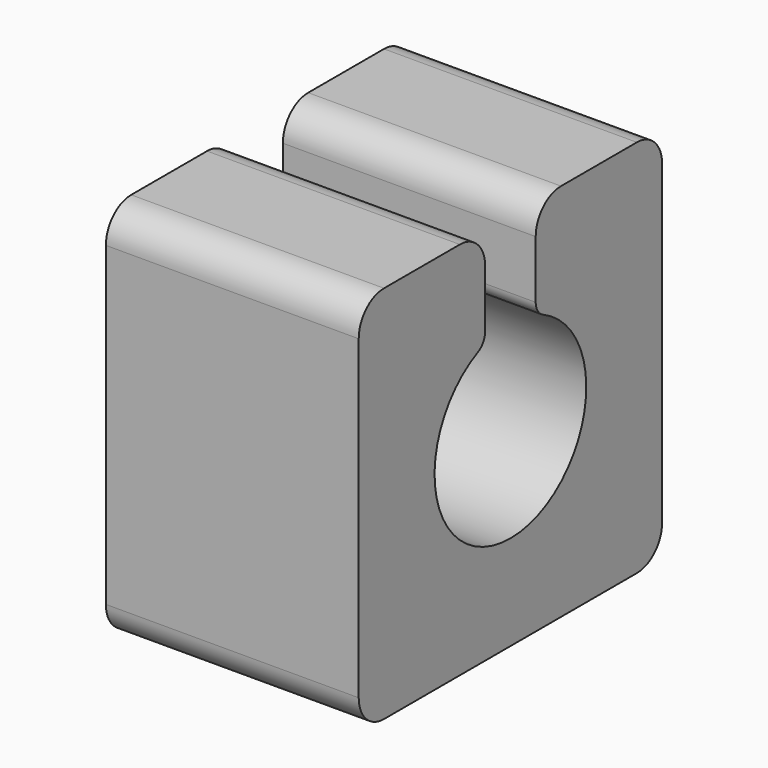
from build123d import *

# Parameters (mm, degrees)
F1_DEPTH = 50.8


with BuildPart() as f1:
    # F0 (on Right) → F1 (new body)
    with BuildSketch(Plane.YZ):
        with BuildLine():
            ThreePointArc((38.1, 31.75), (36.240128, 36.240128), (31.75, 38.1))
            Line((31.75, 38.1), (12.7, 38.1))
            ThreePointArc((12.7, 38.1), (8.209872, 36.240128), (6.35, 31.75))
            Line((6.35, 31.75), (6.35, 20.128599))
            ThreePointArc((6.35, 20.128599), (6.851557, 18.393731), (8.201481, 17.194133))
            ThreePointArc((8.201481, 17.194133), (0, -19.05), (-8.201481, 17.194133))
            ThreePointArc((-8.201481, 17.194133), (-6.851557, 18.393731), (-6.35, 20.128599))
            Line((-6.35, 20.128599), (-6.35, 31.75))
            ThreePointArc((-6.35, 31.75), (-8.209872, 36.240128), (-12.7, 38.1))
            Line((-12.7, 38.1), (-31.75, 38.1))
            ThreePointArc((-31.75, 38.1), (-36.240128, 36.240128), (-38.1, 31.75))
            Line((-38.1, 31.75), (-38.1, -31.75))
            ThreePointArc((-38.1, -31.75), (-36.240128, -36.240128), (-31.75, -38.1))
            Line((-31.75, -38.1), (31.75, -38.1))
            ThreePointArc((31.75, -38.1), (36.240128, -36.240128), (38.1, -31.75))
            Line((38.1, -31.75), (38.1, 31.75))
        make_face()
    extrude(amount=F1_DEPTH)


solid = f1.part
